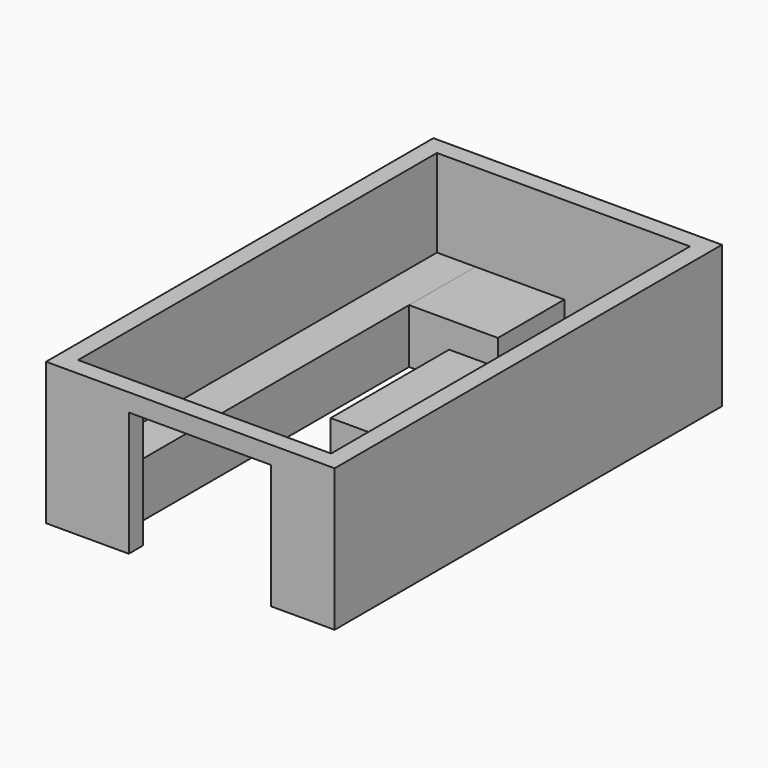
from build123d import *

# Parameters (mm, degrees)
F0_W     = 4870
F0_H     = 8170
F1_DEPTH = 2400
F3_DEPTH = 920
F4_W     = 2400
F4_H     = 2100
F5_DEPTH = 510
F6_W     = 1000
F6_H     = 2500
F7_DEPTH = 920
F8_W     = 1400
F8_H     = 920
F9_DEPTH = 1500


with BuildPart() as f1:
    # F0 (on Top) → F1 (new body)
    with BuildSketch(Plane.XY):
        with Locations((2435, 4085)):
            Rectangle(F0_W, F0_H)
        Polygon((300, 300), (300, 7870), (950, 7870), (4570, 7870), (4570, 300), align=None, mode=Mode.SUBTRACT)
    extrude(amount=F1_DEPTH)

    # F4 (on face) → F5 (cut)
    with BuildSketch(Plane.XZ):
        with Locations((2595.344734, 1050)):
            Rectangle(F4_W, F4_H)
    extrude(amount=-F5_DEPTH, mode=Mode.SUBTRACT)


with BuildPart() as f3:
    # F2 (on Top) → F3 (new body)
    with BuildSketch(Plane.XY):
        Polygon((950, 651.986386), (950, 7870), (278.446525, 7870), (278.446525, 275.54065), (950, 275.54065), align=None)
    extrude(amount=F3_DEPTH)


with BuildPart() as f7:
    # F6 (on Top) → F7 (new body)
    with BuildSketch(Plane.XY):
        with Locations((2656.287205, 4557.328731)):
            Rectangle(F6_W, F6_H)
    extrude(amount=F7_DEPTH)


with BuildPart() as f9:
    # F8 (on face) → F9 (new body)
    with BuildSketch(Plane.YZ.offset(950)):
        with Locations((7170, 460)):
            Rectangle(F8_W, F8_H)
    extrude(amount=F9_DEPTH)


solid = Compound([f1.part, f3.part, f7.part, f9.part])
